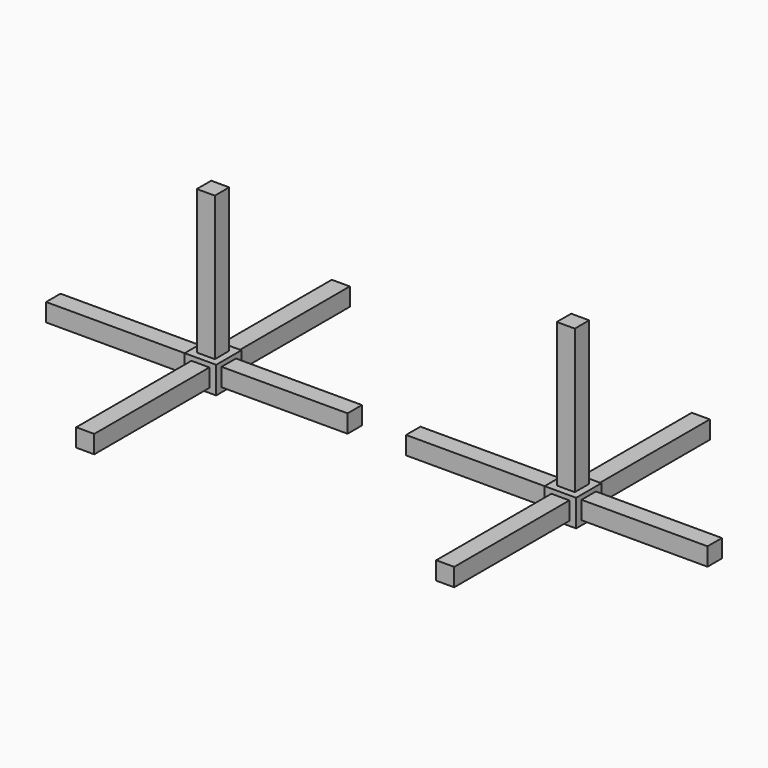
from build123d import *

# Parameters (mm, degrees)
F0_W      = 50.8
F0_H      = 50.8
F1_DEPTH  = 406.4
F2_W      = 88.9
F2_H      = 88.9
F3_DEPTH  = 76.2
F4_W      = 50.8
F4_H      = 50.8
F5_DEPTH  = 406.4
F6_W      = 50.8
F6_H      = 50.8
F7_DEPTH  = 444.5
F8_W      = 50.8
F8_H      = 50.8
F9_DEPTH  = 406.4
F10_W     = 50.8
F10_H     = 50.8
F11_DEPTH = 406.4


with BuildPart() as f1:
    # F0 (on Top) → F1 (new body)
    with BuildSketch(Plane.XY):
        Rectangle(F0_W, F0_H)
    extrude(amount=F1_DEPTH)

    # F2 (on Top) → F3 (join)
    with BuildSketch(Plane.XY):
        Rectangle(F2_W, F2_H)
    extrude(amount=-F3_DEPTH)

    # F4 (on face) → F5 (join)
    with BuildSketch(Plane(origin=(0, 44.45, 0), x_dir=(-1, 0, 0), z_dir=(0, 1, 0))):
        with Locations((0, -38.1)):
            Rectangle(F4_W, F4_H)
    extrude(amount=F5_DEPTH)

    # F6 (on face) → F7 (join)
    with BuildSketch(Plane(origin=(-44.45, 0, 0), x_dir=(0, -1, 0), z_dir=(-1, 0, 0))):
        with Locations((0, -38.1)):
            Rectangle(F6_W, F6_H)
    extrude(amount=-F7_DEPTH)

    # F8 (on face) → F9 (join)
    with BuildSketch(Plane.XZ.offset(44.45)):
        with Locations((0, -38.1)):
            Rectangle(F8_W, F8_H)
    extrude(amount=F9_DEPTH)

    # F10 (on face) → F11 (join)
    with BuildSketch(Plane(origin=(-44.45, 0, 0), x_dir=(0, -1, 0), z_dir=(-1, 0, 0))):
        with Locations((0, -38.1)):
            Rectangle(F10_W, F10_H)
    extrude(amount=F11_DEPTH)


with BuildPart() as f12_1:
    # F12: copy of F1
    add(f1.part.moved(Location((1016, 0, 0))))


solid = Compound([f1.part, f12_1.part])
